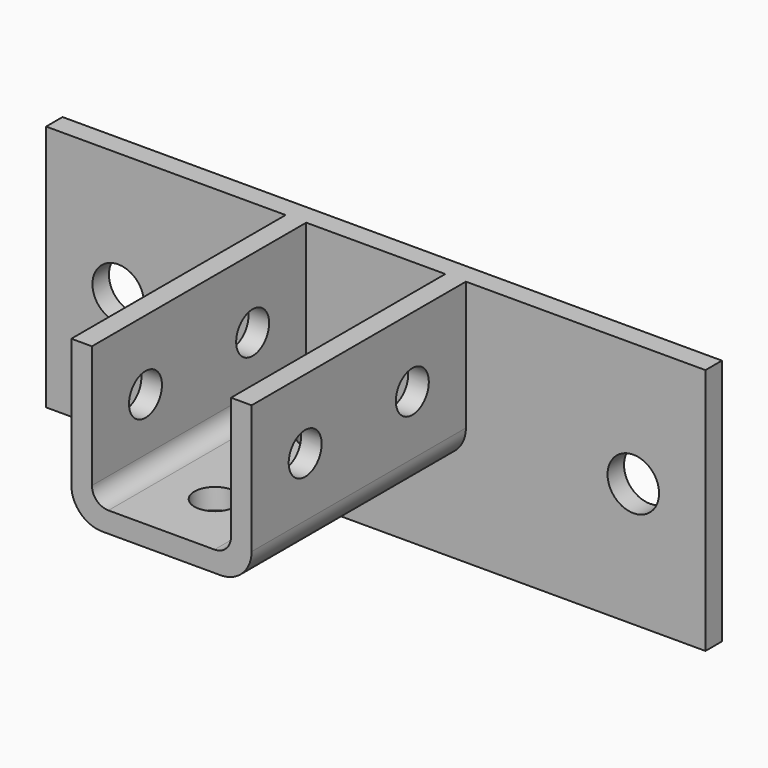
from build123d import *

# Parameters (mm, degrees)
F1_DEPTH = 41.275
F2_R     = 5.08
F3_R     = 9.525
F4_R     = 6.35
F5_DEPTH = 55.5635
F6_R     = 6.35
F7_DEPTH = 25.4
F8_W     = 203.2
F8_H     = 76.2
F8_R     = 7.9375
F9_DEPTH = 6.35


with BuildPart() as f1:
    # F0 (on Front) → F1 (new body, symmetric)
    with BuildSketch(Plane.XZ):
        Polygon((21.43125, 21.43125), (21.43125, -21.43125), (-21.43125, -21.43125), (-21.43125, 21.43125), (-27.78125, 21.43125), (-27.78125, -21.43125), (-27.78125, -27.78125), (-21.43125, -27.78125), (21.43125, -27.78125), (27.78125, -27.78125), (27.78125, -21.43125), (27.78125, 21.43125), align=None)
    extrude(amount=F1_DEPTH, both=True)

    # F2
    f2_edges = [f1.edges().sort_by_distance(p)[0] for p in [
        (-21.43125, 0, -21.43125),
        (21.43125, 0, -21.43125),
    ]]
    fillet(f2_edges, radius=F2_R)

    # F3
    f3_edges = [f1.edges().sort_by_distance(p)[0] for p in [
        (-27.78125, 0, -27.78125),
        (27.78125, 0, -27.78125),
    ]]
    fillet(f3_edges, radius=F3_R)

    # F4 (on face) → F5 (cut, through all)
    with BuildSketch(Plane.YZ.offset(27.78125)):
        with Locations((-20.6375, 0)):
            Circle(F4_R)
        with Locations((20.6375, 0)):
            Circle(F4_R)
    extrude(amount=-F5_DEPTH, mode=Mode.SUBTRACT)

    # F6 (on face) → F7 (cut)
    with BuildSketch(Plane(origin=(0, 0, -27.78125), x_dir=(1, 0, 0), z_dir=(0, 0, -1))):
        with Locations((0, 20.6375)):
            Circle(F6_R)
        with Locations((0, -20.6375)):
            Circle(F6_R)
    extrude(amount=-F7_DEPTH, mode=Mode.SUBTRACT)

    # F8 (on face) → F9 (join)
    with BuildSketch(Plane(origin=(0, 41.275, 0), x_dir=(-1, 0, 0), z_dir=(0, 1, 0))):
        with Locations((0, -16.66875)):
            Rectangle(F8_W, F8_H)
        with Locations((-79.375, -16.66875)):
            Circle(F8_R, mode=Mode.SUBTRACT)
        with Locations((79.375, -16.66875)):
            Circle(F8_R, mode=Mode.SUBTRACT)
    extrude(amount=F9_DEPTH)


solid = f1.part
